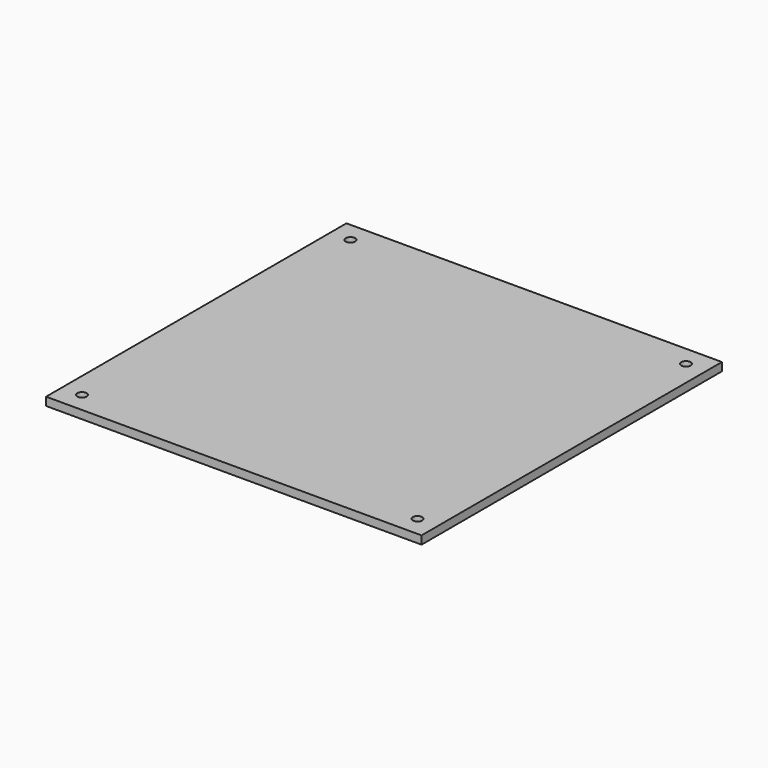
from build123d import *

# Parameters (mm, degrees)
F0_W     = 320
F0_H     = 320
F0_W_2   = 300
F0_H_2   = 300
F1_DEPTH = 7
F2_DEPTH = 3
F3_R     = 4
F4_DEPTH = 7.5


with BuildPart() as f1:
    # F0 (on Top) → F1 (new body)
    with BuildSketch(Plane.XY):
        Rectangle(F0_W, F0_H)
        Rectangle(F0_W_2, F0_H_2, mode=Mode.SUBTRACT)
        Rectangle(F0_W_2, F0_H_2)
    extrude(amount=F1_DEPTH)

    # F0 (on Top) → F2 (join)
    with BuildSketch(Plane.XY):
        Rectangle(F0_W_2, F0_H_2)
    extrude(amount=-F2_DEPTH)

    # F3 (on Top) → F4 (cut, symmetric)
    with BuildSketch(Plane.XY):
        with Locations((-143, 143)):
            Circle(F3_R)
        with Locations((143, 143)):
            Circle(F3_R)
        with Locations((143, -143)):
            Circle(F3_R)
        with Locations((-143, -143)):
            Circle(F3_R)
    extrude(amount=F4_DEPTH, both=True, mode=Mode.SUBTRACT)


solid = f1.part
